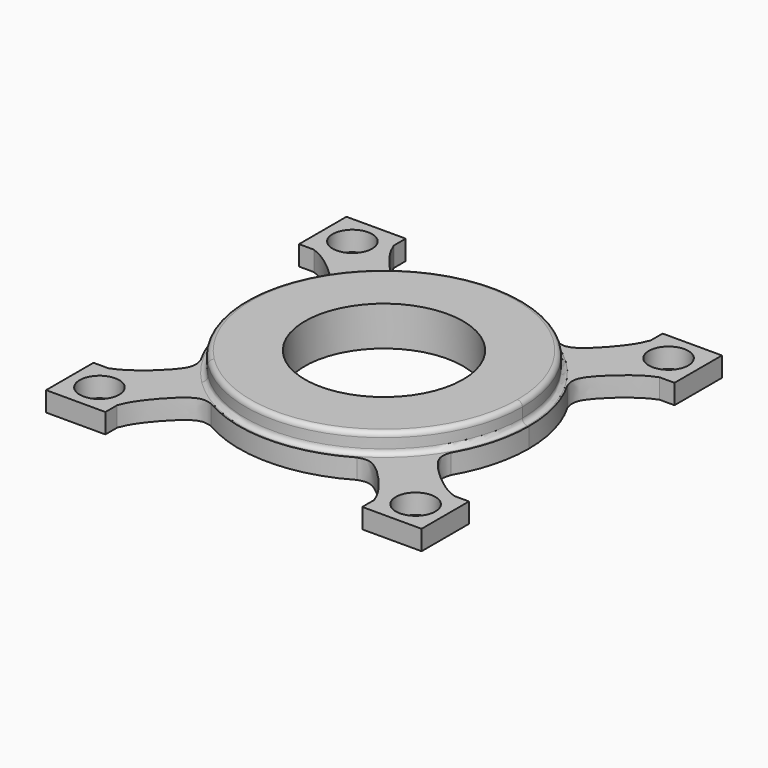
from build123d import *

# Parameters (mm, degrees)
F1_DEPTH = 3.175
F0_R     = 1.5875
F2_DEPTH = 1.5875
F3_R     = 0.39624


with BuildPart() as f1:
    # F0 (on Top) → F1 (new body)
    with BuildSketch(Plane.XY):
        with BuildLine():
            ThreePointArc((11.1125, 0), (-4.2525696422, 10.266611305), (-7.8577241059, -7.8577241059))
            ThreePointArc((-7.8577241059, -7.8577241059), (4.2525696422, -10.266611305), (11.1125, 0))
        make_face()
        with BuildLine():
            ThreePointArc((6.35, 0), (2.4300397955, -5.8666350314), (-4.4901280605, -4.4901280605))
            ThreePointArc((-4.4901280605, -4.4901280605), (-2.4300397955, 5.8666350314), (6.35, 0))
        make_face(mode=Mode.SUBTRACT)
    extrude(amount=F1_DEPTH)

    # F0 (on Top) → F2 (join)
    with BuildSketch(Plane.XY):
        with BuildLine():
            ThreePointArc((10.0508463237, -5.8576301025), (11.2306466353, -3.0337960369), (11.6332, 0))
            ThreePointArc((11.6332, 0), (11.2306466353, 3.0337960369), (10.0508463237, 5.8576301025))
            ThreePointArc((10.0508463237, 5.8576301025), (8.2259146069, 8.2259146069), (5.8576301025, 10.0508463237))
            ThreePointArc((5.8576301025, 10.0508463237), (0, 11.6332), (-5.8576301025, 10.0508463237))
            ThreePointArc((-5.8576301025, 10.0508463237), (-8.2259146069, 8.2259146069), (-10.0508463237, 5.8576301025))
            ThreePointArc((-10.0508463237, 5.8576301025), (-11.6332, 0), (-10.0508463237, -5.8576301025))
            ThreePointArc((-10.0508463237, -5.8576301025), (-9.2147810827, -7.1006444664), (-8.2259146069, -8.2259146069))
            ThreePointArc((-8.2259146069, -8.2259146069), (-7.1006444664, -9.2147810827), (-5.8576301025, -10.0508463237))
            ThreePointArc((-5.8576301025, -10.0508463237), (0, -11.6332), (5.8576301025, -10.0508463237))
            ThreePointArc((5.8576301025, -10.0508463237), (8.2259146069, -8.2259146069), (10.0508463237, -5.8576301025))
        make_face()
        with BuildLine():
            ThreePointArc((11.1125, 0), (4.2525696422, -10.266611305), (-7.8577241059, -7.8577241059))
            ThreePointArc((-7.8577241059, -7.8577241059), (-4.2525696422, 10.266611305), (11.1125, 0))
        make_face(mode=Mode.SUBTRACT)
        with BuildLine():
            ThreePointArc((-10.0508463237, 5.8576301025), (-8.2259146069, 8.2259146069), (-5.8576301025, 10.0508463237))
            add(Edge.make_bspline(
                [(-10.31875, 13.890625), (-10.1877713535, 13.556132491), (-9.8378118548, 12.6624079499), (-7.2130077738, 9.6441879633), (-6.2171876005, 9.9429671209), (-5.8576301025, 10.0508463237)],
                knots=[0, 0, 0, 0, 0.2764969064, 0.7387671297, 1, 1, 1, 1], degree=3))
            Line((-10.31875, 13.890625), (-10.31875, 10.31875))
            Line((-10.31875, 10.31875), (-13.890625, 10.31875))
            add(Edge.make_bspline(
                [(-13.890625, 10.31875), (-13.556132491, 10.1877713535), (-12.6624079499, 9.8378118548), (-9.6441879633, 7.2130077738), (-9.9429671209, 6.2171876005), (-10.0508463237, 5.8576301025)],
                knots=[0, 0, 0, 0, 0.2764969064, 0.7387671297, 1, 1, 1, 1], degree=3))
        make_face()
        Polygon((-10.31875, 10.31875), (-10.31875, 13.890625), (-10.31875, 15.08125), (-15.08125, 15.08125), (-15.08125, 10.31875), (-13.890625, 10.31875), align=None)
        with Locations((-12.7, 12.7)):
            Circle(F0_R, mode=Mode.SUBTRACT)
        with BuildLine():
            ThreePointArc((5.8576301025, 10.0508463237), (8.2259146069, 8.2259146069), (10.0508463237, 5.8576301025))
            add(Edge.make_bspline(
                [(13.890625, 10.31875), (13.556132491, 10.1877713535), (12.6624079499, 9.8378118548), (9.6441879633, 7.2130077738), (9.9429671209, 6.2171876005), (10.0508463237, 5.8576301025)],
                knots=[0, 0, 0, 0, 0.2764969064, 0.7387671297, 1, 1, 1, 1], degree=3))
            Line((13.890625, 10.31875), (10.31875, 10.31875))
            Line((10.31875, 10.31875), (10.31875, 13.890625))
            add(Edge.make_bspline(
                [(10.31875, 13.890625), (10.1877713535, 13.556132491), (9.8378118548, 12.6624079499), (7.2130077738, 9.6441879633), (6.2171876005, 9.9429671209), (5.8576301025, 10.0508463237)],
                knots=[0, 0, 0, 0, 0.2764969064, 0.7387671297, 1, 1, 1, 1], degree=3))
        make_face()
        Polygon((10.31875, 10.31875), (13.890625, 10.31875), (15.08125, 10.31875), (15.08125, 15.08125), (10.31875, 15.08125), (10.31875, 13.890625), align=None)
        with Locations((12.7, 12.7)):
            Circle(F0_R, mode=Mode.SUBTRACT)
        with BuildLine():
            add(Edge.make_bspline(
                [(13.890625, -10.31875), (13.556132491, -10.1877713535), (12.6624079499, -9.8378118548), (9.6441879633, -7.2130077738), (9.9429671209, -6.2171876005), (10.0508463237, -5.8576301025)],
                knots=[0, 0, 0, 0, 0.2764969064, 0.7387671297, 1, 1, 1, 1], degree=3))
            ThreePointArc((10.0508463237, -5.8576301025), (8.2259146069, -8.2259146069), (5.8576301025, -10.0508463237))
            add(Edge.make_bspline(
                [(10.31875, -13.890625), (10.1877713535, -13.556132491), (9.8378118548, -12.6624079499), (7.2130077738, -9.6441879633), (6.2171876005, -9.9429671209), (5.8576301025, -10.0508463237)],
                knots=[0, 0, 0, 0, 0.2764969064, 0.7387671297, 1, 1, 1, 1], degree=3))
            Line((10.31875, -13.890625), (10.31875, -10.31875))
            Line((10.31875, -10.31875), (13.890625, -10.31875))
        make_face()
        Polygon((15.08125, -10.31875), (13.890625, -10.31875), (10.31875, -10.31875), (10.31875, -13.890625), (10.31875, -15.08125), (15.08125, -15.08125), align=None)
        with Locations((12.7, -12.7)):
            Circle(F0_R, mode=Mode.SUBTRACT)
        with BuildLine():
            add(Edge.make_bspline(
                [(-10.31875, -13.890625), (-10.1877713535, -13.556132491), (-9.8378118548, -12.6624079499), (-7.2130077738, -9.6441879633), (-6.2171876005, -9.9429671209), (-5.8576301025, -10.0508463237)],
                knots=[0, 0, 0, 0, 0.2764969064, 0.7387671297, 1, 1, 1, 1], degree=3))
            ThreePointArc((-5.8576301025, -10.0508463237), (-7.1006444664, -9.2147810827), (-8.2259146069, -8.2259146069))
            Line((-8.2259146069, -8.2259146069), (-10.31875, -10.31875))
            Line((-10.31875, -10.31875), (-10.31875, -13.890625))
        make_face()
        with BuildLine():
            Line((-10.31875, -10.31875), (-8.2259146069, -8.2259146069))
            ThreePointArc((-8.2259146069, -8.2259146069), (-9.2147810827, -7.1006444664), (-10.0508463237, -5.8576301025))
            add(Edge.make_bspline(
                [(-13.890625, -10.31875), (-13.556132491, -10.1877713535), (-12.6624079499, -9.8378118548), (-9.6441879633, -7.2130077738), (-9.9429671209, -6.2171876005), (-10.0508463237, -5.8576301025)],
                knots=[0, 0, 0, 0, 0.2764969064, 0.7387671297, 1, 1, 1, 1], degree=3))
            Line((-13.890625, -10.31875), (-10.31875, -10.31875))
        make_face()
        Polygon((-10.31875, -15.08125), (-10.31875, -13.890625), (-10.31875, -10.31875), (-13.890625, -10.31875), (-15.08125, -10.31875), (-15.08125, -15.08125), align=None)
        with BuildLine():
            ThreePointArc((-11.1125, -12.7), (-14.1666587579, -13.3075099489), (-11.5774679849, -11.5774679849))
            ThreePointArc((-11.5774679849, -11.5774679849), (-11.2333412421, -12.0924900511), (-11.1125, -12.7))
        make_face(mode=Mode.SUBTRACT)
    extrude(amount=F2_DEPTH)

    # F3
    f3_edges = [f1.edges().sort_by_distance(p)[0] for p in [
        (7.857724, 7.857724, 1.5875),
        (-7.857724, -7.857724, 2.38125),
        (7.857724, 7.857724, 3.175),
    ]]
    fillet(f3_edges, radius=F3_R)


solid = f1.part
